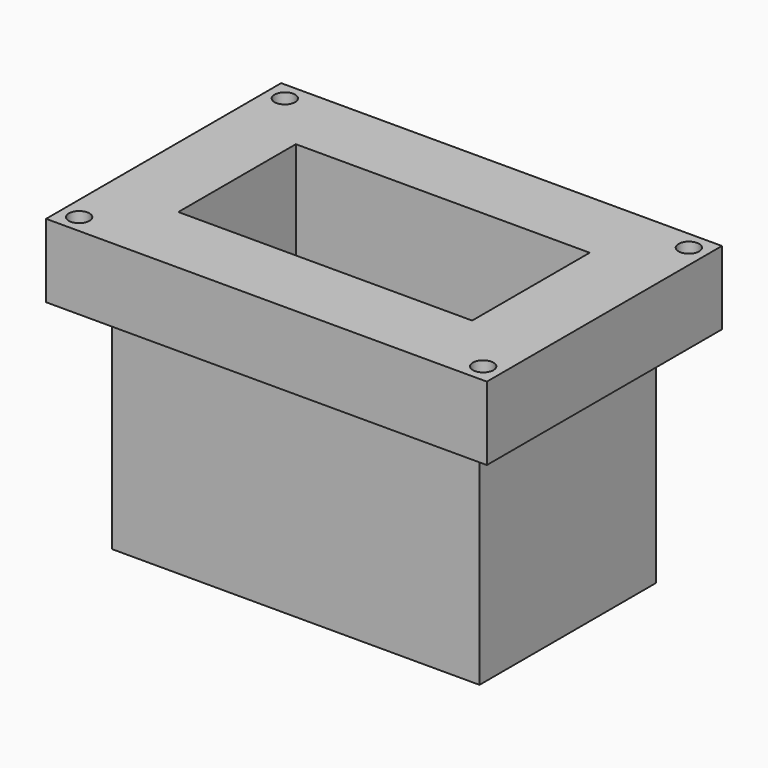
from build123d import *

# Parameters (mm, degrees)
F1_DEPTH = 3.175
F2_DEPTH = 12.7
F3_R     = 0.4445
F4_DEPTH = 25.4


with BuildPart() as f1:
    # F0 (on Top) → F1 (new body)
    with BuildSketch(Plane.XY):
        Polygon((-7.9375, 4.7625), (0, 4.7625), (0, 6.35), (-9.525, 6.35), (-9.525, -6.35), (-7.9375, -4.7625), align=None)
        Polygon((0, 6.35), (0, 4.7625), (7.9375, 4.7625), (7.9375, -4.7625), (0, -4.7625), (0, -6.35), (9.525, -6.35), (9.525, 6.35), align=None)
        Polygon((0, -6.35), (0, -4.7625), (-7.9375, -4.7625), (-9.525, -6.35), align=None)
        Polygon((0, -4.7625), (0, -3.175), (-6.35, -3.175), (-7.9375, -4.7625), align=None)
        Polygon((-6.35, 3.175), (0, 3.175), (0, 4.7625), (-7.9375, 4.7625), (-7.9375, -4.7625), (-6.35, -3.175), align=None)
        Polygon((0, 3.175), (6.35, 3.175), (6.35, -3.175), (0, -3.175), (0, -4.7625), (7.9375, -4.7625), (7.9375, 4.7625), (0, 4.7625), align=None)
    extrude(amount=-F1_DEPTH)

    # F0 (on Top) → F2 (join)
    with BuildSketch(Plane.XY):
        Polygon((0, -4.7625), (0, -3.175), (-6.35, -3.175), (-7.9375, -4.7625), align=None)
        Polygon((0, 3.175), (6.35, 3.175), (6.35, -3.175), (0, -3.175), (0, -4.7625), (7.9375, -4.7625), (7.9375, 4.7625), (0, 4.7625), align=None)
        Polygon((-6.35, 3.175), (0, 3.175), (0, 4.7625), (-7.9375, 4.7625), (-7.9375, -4.7625), (-6.35, -3.175), align=None)
    extrude(amount=-F2_DEPTH)

    # F3 (on face) → F4 (cut)
    with BuildSketch(Plane(origin=(0, 0, -3.175), x_dir=(1, 0, 0), z_dir=(0, 0, -1))):
        with Locations((-8.73125, 5.55625)):
            Circle(F3_R)
        with Locations((8.73125, 5.55625)):
            Circle(F3_R)
        with Locations((8.73125, -5.55625)):
            Circle(F3_R)
        with Locations((-8.73125, -5.55625)):
            Circle(F3_R)
    extrude(amount=-F4_DEPTH, mode=Mode.SUBTRACT)


solid = f1.part
